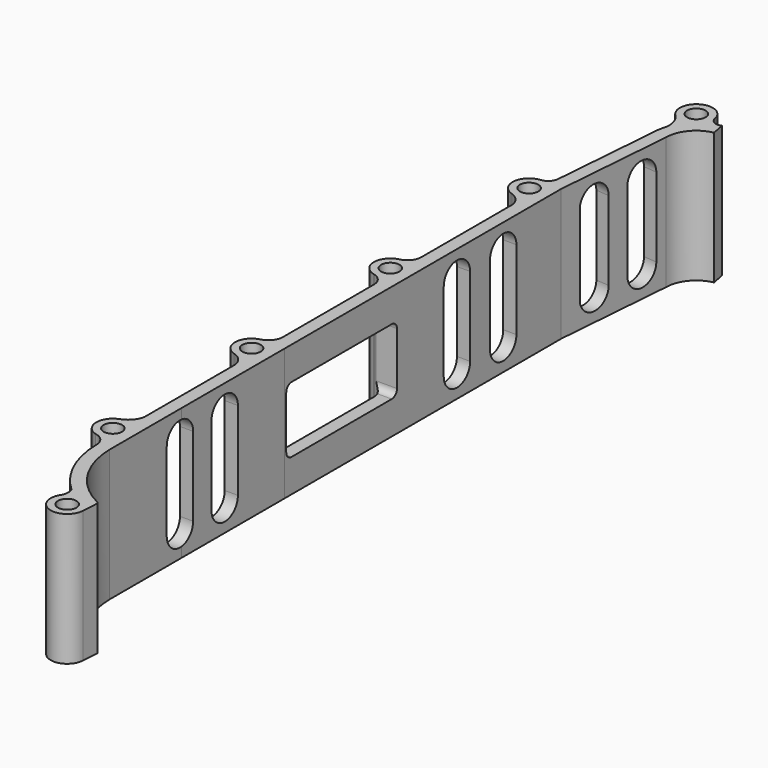
from build123d import *

# Parameters (mm, degrees)
F0_R     = 1.4
F1_DEPTH = 20
F2_W     = 21
F2_H     = 10
F2_W_2   = 5
F2_H_2   = 12
F3_DEPTH = 12.5
F4_R     = 1
F5_W     = 5
F5_H     = 12
F6_DEPTH = 25
F7_W     = 5
F7_H     = 12
F8_DEPTH = 25


with BuildPart() as f1:
    # F0 (on Top) → F1 (new body)
    with BuildSketch(Plane.XY):
        with BuildLine():
            ThreePointArc((119.766765, -67.561464), (114.49339, -62.8618), (112.4559, -56.098371))
            Line((112.4559, -56.098371), (112.4552, -42.5148))
            Line((112.4552, -42.5148), (112.4537, -22.9422))
            Line((112.4537, -22.9422), (112.4537, 29.4765))
            Line((112.4537, 29.4765), (113.8864, 47.5783))
            ThreePointArc((113.8864, 47.5783), (114.928823, 50.48122), (117.5795, 52.0584))
            Line((117.5795, 52.0584), (117.197673, 54.021614))
            ThreePointArc((117.197673, 54.021614), (116.964011, 53.943219), (116.719799, 53.909985))
            ThreePointArc((116.719799, 53.909985), (115.899907, 54.156356), (115.407354, 54.85658))
            ThreePointArc((115.407354, 54.85658), (115.379923, 54.971093), (115.362887, 55.087606))
            ThreePointArc((115.362887, 55.087606), (111.760893, 56.708357), (111.084452, 52.816877))
            ThreePointArc((111.084452, 52.816877), (111.1792, 52.726514), (111.270625, 52.632791))
            ThreePointArc((111.270625, 52.632791), (112.084524, 51.250064), (112.222542, 49.651529))
            ThreePointArc((112.222542, 49.651529), (111.978061, 48.670999), (111.886973, 47.664563))
            Line((111.886973, 47.664563), (110.587267, 31.243102))
            Line((110.587267, 31.243102), (110.585941, 31.226352))
            ThreePointArc((110.585941, 31.226352), (110.146932, 30.253847), (109.194256, 29.773325))
            ThreePointArc((109.194256, 29.773325), (109.13192, 29.766581), (109.069367, 29.762284))
            ThreePointArc((109.069367, 29.762284), (106.867452, 27.55672), (108.526545, 24.918472))
            ThreePointArc((108.526545, 24.918472), (108.595788, 24.897473), (108.664459, 24.874672))
            ThreePointArc((108.664459, 24.874672), (109.817927, 24.10839), (110.456089, 22.879396))
            Line((110.456089, 22.879396), (110.456089, 5.614989))
            ThreePointArc((110.456089, 5.614989), (110.460684, 5.47575), (110.456089, 5.336511))
            ThreePointArc((110.456089, 5.336511), (109.982938, 4.13794), (108.901429, 3.43738))
            ThreePointArc((108.901429, 3.43738), (108.8085, 3.414429), (108.714626, 3.395712))
            ThreePointArc((108.714626, 3.395712), (106.8519, 0.977433), (108.716303, -1.439554))
            ThreePointArc((108.716303, -1.439554), (108.804521, -1.457417), (108.891899, -1.479015))
            ThreePointArc((108.891899, -1.479015), (110.005313, -2.215712), (110.456089, -3.47238))
            ThreePointArc((110.456089, -3.47238), (110.456672, -3.522062), (110.456089, -3.571745))
            Line((110.456089, -3.571745), (110.456089, -20.788586))
            ThreePointArc((110.456089, -20.788586), (110.006258, -22.084823), (108.878873, -22.866859))
            ThreePointArc((108.878873, -22.866859), (108.764486, -22.897845), (108.648604, -22.922664))
            ThreePointArc((108.648604, -22.922664), (106.85218, -25.284275), (108.577099, -27.698606))
            ThreePointArc((108.577099, -27.698606), (108.663234, -27.721653), (108.748484, -27.747785))
            ThreePointArc((108.748484, -27.747785), (109.969914, -28.627691), (110.456089, -30.052387))
            ThreePointArc((110.456089, -30.052387), (110.456585, -30.101978), (110.456089, -30.151568))
            Line((110.456089, -30.151568), (110.456089, -47.029801))
            ThreePointArc((110.456089, -47.029801), (109.754616, -48.430568), (108.445892, -49.291647))
            ThreePointArc((108.445892, -49.291647), (106.854026, -51.724792), (108.640977, -54.018487))
            ThreePointArc((108.640977, -54.018487), (109.940136, -54.739828), (110.456206, -56.13332))
            ThreePointArc((110.456206, -56.13332), (111.783653, -62.045742), (115.341962, -66.950565))
            ThreePointArc((115.341962, -66.950565), (115.489565, -67.915475), (115.1972, -68.846797))
            ThreePointArc((115.1972, -68.846797), (115.17136, -68.889542), (115.144539, -68.931677))
            ThreePointArc((115.144539, -68.931677), (116.558423, -72.59606), (119.789896, -70.363493))
            Line((119.789896, -70.363493), (119.946342, -67.869597))
            ThreePointArc((119.946342, -67.869597), (119.903396, -67.688231), (119.766765, -67.561464))
        make_face()
        with Locations((109.3519, -51.6217)):
            Circle(F0_R, mode=Mode.SUBTRACT)
        with Locations((109.3519, -25.3217)):
            Circle(F0_R, mode=Mode.SUBTRACT)
        with Locations((117.2948, -70.206971)):
            Circle(F0_R, mode=Mode.SUBTRACT)
        with Locations((109.3519, 0.9783)):
            Circle(F0_R, mode=Mode.SUBTRACT)
        with Locations((109.3519, 27.2783)):
            Circle(F0_R, mode=Mode.SUBTRACT)
        with Locations((112.9329, 54.5001)):
            Circle(F0_R, mode=Mode.SUBTRACT)
        with BuildLine():
            ThreePointArc((115.1972, -68.846797), (115.170445, -68.888974), (115.144539, -68.931677))
            ThreePointArc((115.144539, -68.931677), (115.17136, -68.889542), (115.1972, -68.846797))
        make_face()
        with BuildLine():
            ThreePointArc((116.719799, 53.909985), (116.964011, 53.943219), (117.197673, 54.021614))
            ThreePointArc((117.197673, 54.021614), (116.957693, 53.970267), (116.719799, 53.909985))
        make_face()
        with BuildLine():
            ThreePointArc((115.362887, 55.087606), (115.379923, 54.971093), (115.407354, 54.85658))
            ThreePointArc((115.407354, 54.85658), (115.38784, 54.972616), (115.362887, 55.087606))
        make_face()
        with BuildLine():
            ThreePointArc((111.270625, 52.632791), (111.1792, 52.726514), (111.084452, 52.816877))
            ThreePointArc((111.084452, 52.816877), (111.175127, 52.722395), (111.270625, 52.632791))
        make_face()
        with BuildLine():
            Line((110.456089, -30.052387), (110.456089, -30.151568))
            ThreePointArc((110.456089, -30.151568), (110.456585, -30.101978), (110.456089, -30.052387))
        make_face()
        with BuildLine():
            ThreePointArc((108.577099, -27.698606), (108.662353, -27.724724), (108.748484, -27.747785))
            ThreePointArc((108.748484, -27.747785), (108.663234, -27.721653), (108.577099, -27.698606))
        make_face()
        with BuildLine():
            ThreePointArc((108.878873, -22.866859), (108.763077, -22.892032), (108.648604, -22.922664))
            ThreePointArc((108.648604, -22.922664), (108.764486, -22.897845), (108.878873, -22.866859))
        make_face()
        with BuildLine():
            ThreePointArc((109.069367, 29.762284), (109.13192, 29.766581), (109.194256, 29.773325))
            ThreePointArc((109.194256, 29.773325), (109.131742, 29.768587), (109.069367, 29.762284))
        make_face()
        with BuildLine():
            Line((110.456089, -3.47238), (110.456089, -3.571745))
            ThreePointArc((110.456089, -3.571745), (110.456672, -3.522062), (110.456089, -3.47238))
        make_face()
        with BuildLine():
            ThreePointArc((108.664459, 24.874672), (108.595788, 24.897473), (108.526545, 24.918472))
            ThreePointArc((108.526545, 24.918472), (108.595185, 24.895574), (108.664459, 24.874672))
        make_face()
        with BuildLine():
            ThreePointArc((108.716303, -1.439554), (108.803746, -1.460865), (108.891899, -1.479015))
            ThreePointArc((108.891899, -1.479015), (108.804521, -1.457417), (108.716303, -1.439554))
        make_face()
        with BuildLine():
            ThreePointArc((110.456089, 5.336511), (110.460684, 5.47575), (110.456089, 5.614989))
            Line((110.456089, 5.614989), (110.456089, 5.336511))
        make_face()
        with BuildLine():
            ThreePointArc((108.901429, 3.43738), (108.807629, 3.418335), (108.714626, 3.395712))
            ThreePointArc((108.714626, 3.395712), (108.8085, 3.414429), (108.901429, 3.43738))
        make_face()
    extrude(amount=F1_DEPTH)

    # F2 (on face) → F3 (cut, symmetric)
    with BuildSketch(Plane(origin=(110.456089, 0, 0), x_dir=(0, -1, 0), z_dir=(-1, 0, 0))):
        with Locations((12.130483, 10)):
            Rectangle(F2_W, F2_H)
        with Locations((-18.493674, 10)):
            Rectangle(F2_W_2, F2_H_2)
        with BuildLine():
            Line((-20.993674, 16), (-15.993674, 16))
            ThreePointArc((-15.993674, 16), (-18.493674, 18.5), (-20.993674, 16))
        make_face()
        with BuildLine():
            ThreePointArc((-20.993674, 4), (-18.493674, 1.5), (-15.993674, 4))
            Line((-15.993674, 4), (-20.993674, 4))
        make_face()
        with Locations((-9.722232, 10)):
            Rectangle(F2_W_2, F2_H_2)
        with BuildLine():
            ThreePointArc((-7.222232, 16), (-9.722232, 18.5), (-12.222232, 16))
            Line((-12.222232, 16), (-7.222232, 16))
        make_face()
        with BuildLine():
            Line((-7.222232, 4), (-12.222232, 4))
            ThreePointArc((-12.222232, 4), (-9.722232, 1.5), (-7.222232, 4))
        make_face()
    extrude(amount=F3_DEPTH, both=True, mode=Mode.SUBTRACT)

    # F4
    f4_edges = [f1.edges().sort_by_distance(p)[0] for p in [
        (110.929494, -22.630483, 5),
        (110.871451, -1.630483, 5),
        (110.871451, -1.630483, 15),
        (110.929494, -22.630483, 15),
    ]]
    fillet(f4_edges, radius=F4_R)

    # F5 (on face) → F6 (cut)
    with BuildSketch(Plane(origin=(107.441437, -8.503649, 0), x_dir=(-0.0789, -0.996883, 0), z_dir=(-0.996883, 0.0789, 0))):
        with Locations((-52.221458, 10)):
            Rectangle(F5_W, F5_H)
        with BuildLine():
            Line((-54.721458, 16), (-49.721458, 16))
            ThreePointArc((-49.721458, 16), (-52.221458, 18.5), (-54.721458, 16))
        make_face()
        with BuildLine():
            ThreePointArc((-54.721458, 4), (-52.221458, 1.5), (-49.721458, 4))
            Line((-49.721458, 4), (-54.721458, 4))
        make_face()
        with BuildLine():
            ThreePointArc((-41.476649, 16), (-43.976649, 18.5), (-46.476649, 16))
            Line((-46.476649, 16), (-41.476649, 16))
        make_face()
        with Locations((-43.976649, 10)):
            Rectangle(F5_W, F5_H)
        with BuildLine():
            Line((-41.476649, 4), (-46.476649, 4))
            ThreePointArc((-46.476649, 4), (-43.976649, 1.5), (-41.476649, 4))
        make_face()
    extrude(amount=-F6_DEPTH, mode=Mode.SUBTRACT)

    # F7 (on face) → F8 (cut)
    with BuildSketch(Plane(origin=(110.456089, 0, 0), x_dir=(0, -1, 0), z_dir=(-1, 0, 0))):
        with Locations((34.29674, 10)):
            Rectangle(F7_W, F7_H)
        with BuildLine():
            Line((31.79674, 16), (36.79674, 16))
            ThreePointArc((36.79674, 16), (34.29674, 18.5), (31.79674, 16))
        make_face()
        with BuildLine():
            ThreePointArc((31.79674, 4), (34.29674, 1.5), (36.79674, 4))
            Line((36.79674, 4), (31.79674, 4))
        make_face()
        with BuildLine():
            ThreePointArc((45.285447, 16), (42.785447, 18.5), (40.285447, 16))
            Line((40.285447, 16), (45.285447, 16))
        make_face()
        with Locations((42.785447, 10)):
            Rectangle(F7_W, F7_H)
        with BuildLine():
            Line((45.285447, 4), (40.285447, 4))
            ThreePointArc((40.285447, 4), (42.785447, 1.5), (45.285447, 4))
        make_face()
    extrude(amount=-F8_DEPTH, mode=Mode.SUBTRACT)


solid = f1.part
